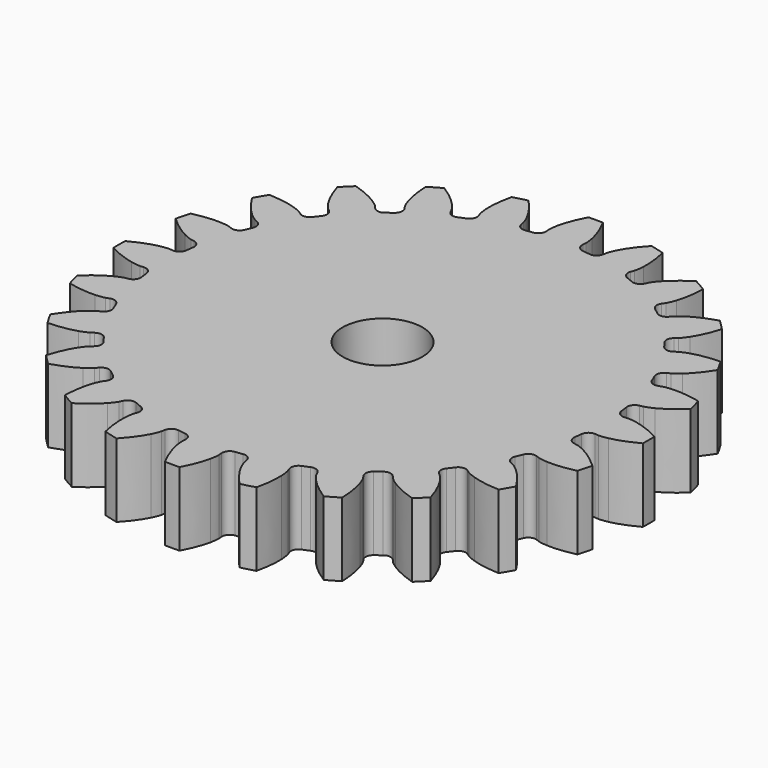
from build123d import *

# Parameters (mm, degrees)
PAD_DEPTH       = 6
POCKET_DEPTH    = 7
SKETCH002_R     = 3.25
POCKET001_DEPTH = 7


with BuildPart() as part:
    # InvoluteGear → Pad (new body)
    with BuildSketch(Plane.XY):
        with BuildLine():
            Line((18.397451, -1.481503), (18.689918, -1.503807))
            add(Edge.make_bspline(
                [(18.689918, -1.503807), (18.773558, -1.505684), (19.025496, -1.501696), (19.445272, -1.412679)],
                knots=[0, 0, 0, 0, 1, 1, 1, 1], degree=3))
            add(Edge.make_bspline(
                [(19.445272, -1.412679), (19.948013, -1.304666), (20.673509, -1.075691), (21.57358, -0.593202)],
                knots=[0, 0, 0, 0, 1, 1, 1, 1], degree=3))
            ThreePointArc((21.57358, -0.593202), (21.581734, 0), (21.57358, 0.593202))
            add(Edge.make_bspline(
                [(21.57358, 0.593202), (20.673509, 1.075691), (19.948013, 1.304666), (19.445272, 1.412679)],
                knots=[0, 0, 0, 0, 1, 1, 1, 1], degree=3))
            add(Edge.make_bspline(
                [(19.445272, 1.412679), (19.025496, 1.501696), (18.773558, 1.505684), (18.689918, 1.503807)],
                knots=[0, 0, 0, 0, 1, 1, 1, 1], degree=3))
            Line((18.689918, 1.503807), (18.397451, 1.481503))
            ThreePointArc((18.397451, 1.481503), (17.952243, 1.621068), (17.729069, 2.030801))
            ThreePointArc((17.729069, 2.030801), (17.692334, 2.32924), (17.650575, 2.627017))
            ThreePointArc((17.650575, 2.627017), (17.760098, 3.080551), (18.154014, 3.330589))
            Line((18.154014, 3.330589), (18.442288, 3.384741))
            add(Edge.make_bspline(
                [(18.442288, 3.384741), (18.523565, 3.404575), (18.765885, 3.473633), (19.148319, 3.668264)],
                knots=[0, 0, 0, 0, 1, 1, 1, 1], degree=3))
            add(Edge.make_bspline(
                [(19.148319, 3.668264), (19.605973, 3.902715), (20.247485, 4.31166), (20.99201, 5.010665)],
                knots=[0, 0, 0, 0, 1, 1, 1, 1], degree=3))
            ThreePointArc((20.99201, 5.010665), (20.846355, 5.585764), (20.684946, 6.156642))
            add(Edge.make_bspline(
                [(20.684946, 6.156642), (19.690667, 6.389736), (18.930628, 6.423136), (18.417062, 6.39735)],
                knots=[0, 0, 0, 0, 1, 1, 1, 1], degree=3))
            add(Edge.make_bspline(
                [(18.417062, 6.39735), (17.98855, 6.374688), (17.744165, 6.313334), (17.663861, 6.289872)],
                knots=[0, 0, 0, 0, 1, 1, 1, 1], degree=3))
            Line((17.663861, 6.289872), (17.387132, 6.192633))
            ThreePointArc((17.387132, 6.192633), (16.920972, 6.212213), (16.599355, 6.550224))
            ThreePointArc((16.599355, 6.550224), (16.48663, 6.828986), (16.369224, 7.105809))
            ThreePointArc((16.369224, 7.105809), (16.357632, 7.572236), (16.673411, 7.915706))
            Line((16.673411, 7.915706), (16.937847, 8.042624))
            add(Edge.make_bspline(
                [(16.937847, 8.042624), (17.011221, 8.082818), (17.227411, 8.212241), (17.546439, 8.49922)],
                knots=[0, 0, 0, 0, 1, 1, 1, 1], degree=3))
            add(Edge.make_bspline(
                [(17.546439, 8.49922), (17.927819, 8.844132), (18.441629, 9.405179), (18.979869, 10.273062)],
                knots=[0, 0, 0, 0, 1, 1, 1, 1], degree=3))
            ThreePointArc((18.979869, 10.273062), (18.69033, 10.790867), (18.386667, 11.300518))
            add(Edge.make_bspline(
                [(18.386667, 11.300518), (17.365938, 11.26833), (16.623153, 11.10388), (16.13376, 10.946052)],
                knots=[0, 0, 0, 0, 1, 1, 1, 1], degree=3))
            add(Edge.make_bspline(
                [(16.13376, 10.946052), (15.725715, 10.813255), (15.505536, 10.69074), (15.43404, 10.647294)],
                knots=[0, 0, 0, 0, 1, 1, 1, 1], degree=3))
            Line((15.43404, 10.647294), (15.191908, 10.481745))
            ThreePointArc((15.191908, 10.481745), (14.736565, 10.380007), (14.338423, 10.62326))
            ThreePointArc((14.338423, 10.62326), (14.15739, 10.863348), (13.972338, 11.100351))
            ThreePointArc((13.972338, 11.100351), (13.840421, 11.547885), (14.056543, 11.961381))
            Line((14.056543, 11.961381), (14.27912, 12.152416))
            add(Edge.make_bspline(
                [(14.27912, 12.152416), (14.33959, 12.210231), (14.514917, 12.391197), (14.748799, 12.750969)],
                knots=[0, 0, 0, 0, 1, 1, 1, 1], degree=3))
            add(Edge.make_bspline(
                [(14.748799, 12.750969), (15.027913, 13.182837), (15.379007, 13.85775), (15.674281, 14.835368)],
                knots=[0, 0, 0, 0, 1, 1, 1, 1], degree=3))
            ThreePointArc((15.674281, 14.835368), (15.260591, 15.260591), (14.835368, 15.674281))
            add(Edge.make_bspline(
                [(14.835368, 15.674281), (13.85775, 15.379007), (13.182837, 15.027913), (12.750969, 14.748799)],
                knots=[0, 0, 0, 0, 1, 1, 1, 1], degree=3))
            add(Edge.make_bspline(
                [(12.750969, 14.748799), (12.391197, 14.514917), (12.210231, 14.33959), (12.152416, 14.27912)],
                knots=[0, 0, 0, 0, 1, 1, 1, 1], degree=3))
            Line((12.152416, 14.27912), (11.961381, 14.056543))
            ThreePointArc((11.961381, 14.056543), (11.547885, 13.840421), (11.100351, 13.972338))
            ThreePointArc((11.100351, 13.972338), (10.863348, 14.15739), (10.62326, 14.338423))
            ThreePointArc((10.62326, 14.338423), (10.380007, 14.736565), (10.481745, 15.191908))
            Line((10.481745, 15.191908), (10.647294, 15.43404))
            add(Edge.make_bspline(
                [(10.647294, 15.43404), (10.69074, 15.505536), (10.813255, 15.725715), (10.946052, 16.13376)],
                knots=[0, 0, 0, 0, 1, 1, 1, 1], degree=3))
            add(Edge.make_bspline(
                [(10.946052, 16.13376), (11.10388, 16.623153), (11.26833, 17.365938), (11.300518, 18.386667)],
                knots=[0, 0, 0, 0, 1, 1, 1, 1], degree=3))
            ThreePointArc((11.300518, 18.386667), (10.790867, 18.69033), (10.273062, 18.979869))
            add(Edge.make_bspline(
                [(10.273062, 18.979869), (9.405179, 18.441629), (8.844132, 17.927819), (8.49922, 17.546439)],
                knots=[0, 0, 0, 0, 1, 1, 1, 1], degree=3))
            add(Edge.make_bspline(
                [(8.49922, 17.546439), (8.212241, 17.227411), (8.082818, 17.011221), (8.042624, 16.937847)],
                knots=[0, 0, 0, 0, 1, 1, 1, 1], degree=3))
            Line((8.042624, 16.937847), (7.915706, 16.673411))
            ThreePointArc((7.915706, 16.673411), (7.572236, 16.357632), (7.105809, 16.369224))
            ThreePointArc((7.105809, 16.369224), (6.828986, 16.48663), (6.550224, 16.599355))
            ThreePointArc((6.550224, 16.599355), (6.212213, 16.920972), (6.192633, 17.387132))
            Line((6.192633, 17.387132), (6.289872, 17.663861))
            add(Edge.make_bspline(
                [(6.289872, 17.663861), (6.313334, 17.744165), (6.374688, 17.98855), (6.39735, 18.417062)],
                knots=[0, 0, 0, 0, 1, 1, 1, 1], degree=3))
            add(Edge.make_bspline(
                [(6.39735, 18.417062), (6.423136, 18.930628), (6.389736, 19.690667), (6.156642, 20.684946)],
                knots=[0, 0, 0, 0, 1, 1, 1, 1], degree=3))
            ThreePointArc((6.156642, 20.684946), (5.585764, 20.846355), (5.010665, 20.99201))
            add(Edge.make_bspline(
                [(5.010665, 20.99201), (4.31166, 20.247485), (3.902715, 19.605973), (3.668264, 19.148319)],
                knots=[0, 0, 0, 0, 1, 1, 1, 1], degree=3))
            add(Edge.make_bspline(
                [(3.668264, 19.148319), (3.473633, 18.765885), (3.404575, 18.523565), (3.384741, 18.442288)],
                knots=[0, 0, 0, 0, 1, 1, 1, 1], degree=3))
            Line((3.384741, 18.442288), (3.330589, 18.154014))
            ThreePointArc((3.330589, 18.154014), (3.080551, 17.760098), (2.627017, 17.650575))
            ThreePointArc((2.627017, 17.650575), (2.32924, 17.692334), (2.030801, 17.729069))
            ThreePointArc((2.030801, 17.729069), (1.621068, 17.952243), (1.481503, 18.397451))
            Line((1.481503, 18.397451), (1.503807, 18.689918))
            add(Edge.make_bspline(
                [(1.503807, 18.689918), (1.505684, 18.773558), (1.501696, 19.025496), (1.412679, 19.445272)],
                knots=[0, 0, 0, 0, 1, 1, 1, 1], degree=3))
            add(Edge.make_bspline(
                [(1.412679, 19.445272), (1.304666, 19.948013), (1.075691, 20.673509), (0.593202, 21.57358)],
                knots=[0, 0, 0, 0, 1, 1, 1, 1], degree=3))
            ThreePointArc((0.593202, 21.57358), (0, 21.581734), (-0.593202, 21.57358))
            add(Edge.make_bspline(
                [(-0.593202, 21.57358), (-1.075691, 20.673509), (-1.304666, 19.948013), (-1.412679, 19.445272)],
                knots=[0, 0, 0, 0, 1, 1, 1, 1], degree=3))
            add(Edge.make_bspline(
                [(-1.412679, 19.445272), (-1.501696, 19.025496), (-1.505684, 18.773558), (-1.503807, 18.689918)],
                knots=[0, 0, 0, 0, 1, 1, 1, 1], degree=3))
            Line((-1.503807, 18.689918), (-1.481503, 18.397451))
            ThreePointArc((-1.481503, 18.397451), (-1.621068, 17.952243), (-2.030801, 17.729069))
            ThreePointArc((-2.030801, 17.729069), (-2.32924, 17.692334), (-2.627017, 17.650575))
            ThreePointArc((-2.627017, 17.650575), (-3.080551, 17.760098), (-3.330589, 18.154014))
            Line((-3.330589, 18.154014), (-3.384741, 18.442288))
            add(Edge.make_bspline(
                [(-3.384741, 18.442288), (-3.404575, 18.523565), (-3.473633, 18.765885), (-3.668264, 19.148319)],
                knots=[0, 0, 0, 0, 1, 1, 1, 1], degree=3))
            add(Edge.make_bspline(
                [(-3.668264, 19.148319), (-3.902715, 19.605973), (-4.31166, 20.247485), (-5.010665, 20.99201)],
                knots=[0, 0, 0, 0, 1, 1, 1, 1], degree=3))
            ThreePointArc((-5.010665, 20.99201), (-5.585764, 20.846355), (-6.156642, 20.684946))
            add(Edge.make_bspline(
                [(-6.156642, 20.684946), (-6.389736, 19.690667), (-6.423136, 18.930628), (-6.39735, 18.417062)],
                knots=[0, 0, 0, 0, 1, 1, 1, 1], degree=3))
            add(Edge.make_bspline(
                [(-6.39735, 18.417062), (-6.374688, 17.98855), (-6.313334, 17.744165), (-6.289872, 17.663861)],
                knots=[0, 0, 0, 0, 1, 1, 1, 1], degree=3))
            Line((-6.289872, 17.663861), (-6.192633, 17.387132))
            ThreePointArc((-6.192633, 17.387132), (-6.212213, 16.920972), (-6.550224, 16.599355))
            ThreePointArc((-6.550224, 16.599355), (-6.828986, 16.48663), (-7.105809, 16.369224))
            ThreePointArc((-7.105809, 16.369224), (-7.572236, 16.357632), (-7.915706, 16.673411))
            Line((-7.915706, 16.673411), (-8.042624, 16.937847))
            add(Edge.make_bspline(
                [(-8.042624, 16.937847), (-8.082818, 17.011221), (-8.212241, 17.227411), (-8.49922, 17.546439)],
                knots=[0, 0, 0, 0, 1, 1, 1, 1], degree=3))
            add(Edge.make_bspline(
                [(-8.49922, 17.546439), (-8.844132, 17.927819), (-9.405179, 18.441629), (-10.273062, 18.979869)],
                knots=[0, 0, 0, 0, 1, 1, 1, 1], degree=3))
            ThreePointArc((-10.273062, 18.979869), (-10.790867, 18.69033), (-11.300518, 18.386667))
            add(Edge.make_bspline(
                [(-11.300518, 18.386667), (-11.26833, 17.365938), (-11.10388, 16.623153), (-10.946052, 16.13376)],
                knots=[0, 0, 0, 0, 1, 1, 1, 1], degree=3))
            add(Edge.make_bspline(
                [(-10.946052, 16.13376), (-10.813255, 15.725715), (-10.69074, 15.505536), (-10.647294, 15.43404)],
                knots=[0, 0, 0, 0, 1, 1, 1, 1], degree=3))
            Line((-10.647294, 15.43404), (-10.481745, 15.191908))
            ThreePointArc((-10.481745, 15.191908), (-10.380007, 14.736565), (-10.62326, 14.338423))
            ThreePointArc((-10.62326, 14.338423), (-10.863348, 14.15739), (-11.100351, 13.972338))
            ThreePointArc((-11.100351, 13.972338), (-11.547885, 13.840421), (-11.961381, 14.056543))
            Line((-11.961381, 14.056543), (-12.152416, 14.27912))
            add(Edge.make_bspline(
                [(-12.152416, 14.27912), (-12.210231, 14.33959), (-12.391197, 14.514917), (-12.750969, 14.748799)],
                knots=[0, 0, 0, 0, 1, 1, 1, 1], degree=3))
            add(Edge.make_bspline(
                [(-12.750969, 14.748799), (-13.182837, 15.027913), (-13.85775, 15.379007), (-14.835368, 15.674281)],
                knots=[0, 0, 0, 0, 1, 1, 1, 1], degree=3))
            ThreePointArc((-14.835368, 15.674281), (-15.260591, 15.260591), (-15.674281, 14.835368))
            add(Edge.make_bspline(
                [(-15.674281, 14.835368), (-15.379007, 13.85775), (-15.027913, 13.182837), (-14.748799, 12.750969)],
                knots=[0, 0, 0, 0, 1, 1, 1, 1], degree=3))
            add(Edge.make_bspline(
                [(-14.748799, 12.750969), (-14.514917, 12.391197), (-14.33959, 12.210231), (-14.27912, 12.152416)],
                knots=[0, 0, 0, 0, 1, 1, 1, 1], degree=3))
            Line((-14.27912, 12.152416), (-14.056543, 11.961381))
            ThreePointArc((-14.056543, 11.961381), (-13.840421, 11.547885), (-13.972338, 11.100351))
            ThreePointArc((-13.972338, 11.100351), (-14.15739, 10.863348), (-14.338423, 10.62326))
            ThreePointArc((-14.338423, 10.62326), (-14.736565, 10.380007), (-15.191908, 10.481745))
            Line((-15.191908, 10.481745), (-15.43404, 10.647294))
            add(Edge.make_bspline(
                [(-15.43404, 10.647294), (-15.505536, 10.69074), (-15.725715, 10.813255), (-16.13376, 10.946052)],
                knots=[0, 0, 0, 0, 1, 1, 1, 1], degree=3))
            add(Edge.make_bspline(
                [(-16.13376, 10.946052), (-16.623153, 11.10388), (-17.365938, 11.26833), (-18.386667, 11.300518)],
                knots=[0, 0, 0, 0, 1, 1, 1, 1], degree=3))
            ThreePointArc((-18.386667, 11.300518), (-18.69033, 10.790867), (-18.979869, 10.273062))
            add(Edge.make_bspline(
                [(-18.979869, 10.273062), (-18.441629, 9.405179), (-17.927819, 8.844132), (-17.546439, 8.49922)],
                knots=[0, 0, 0, 0, 1, 1, 1, 1], degree=3))
            add(Edge.make_bspline(
                [(-17.546439, 8.49922), (-17.227411, 8.212241), (-17.011221, 8.082818), (-16.937847, 8.042624)],
                knots=[0, 0, 0, 0, 1, 1, 1, 1], degree=3))
            Line((-16.937847, 8.042624), (-16.673411, 7.915706))
            ThreePointArc((-16.673411, 7.915706), (-16.357632, 7.572236), (-16.369224, 7.105809))
            ThreePointArc((-16.369224, 7.105809), (-16.48663, 6.828986), (-16.599355, 6.550224))
            ThreePointArc((-16.599355, 6.550224), (-16.920972, 6.212213), (-17.387132, 6.192633))
            Line((-17.387132, 6.192633), (-17.663861, 6.289872))
            add(Edge.make_bspline(
                [(-17.663861, 6.289872), (-17.744165, 6.313334), (-17.98855, 6.374688), (-18.417062, 6.39735)],
                knots=[0, 0, 0, 0, 1, 1, 1, 1], degree=3))
            add(Edge.make_bspline(
                [(-18.417062, 6.39735), (-18.930628, 6.423136), (-19.690667, 6.389736), (-20.684946, 6.156642)],
                knots=[0, 0, 0, 0, 1, 1, 1, 1], degree=3))
            ThreePointArc((-20.684946, 6.156642), (-20.846355, 5.585764), (-20.99201, 5.010665))
            add(Edge.make_bspline(
                [(-20.99201, 5.010665), (-20.247485, 4.31166), (-19.605973, 3.902715), (-19.148319, 3.668264)],
                knots=[0, 0, 0, 0, 1, 1, 1, 1], degree=3))
            add(Edge.make_bspline(
                [(-19.148319, 3.668264), (-18.765885, 3.473633), (-18.523565, 3.404575), (-18.442288, 3.384741)],
                knots=[0, 0, 0, 0, 1, 1, 1, 1], degree=3))
            Line((-18.442288, 3.384741), (-18.154014, 3.330589))
            ThreePointArc((-18.154014, 3.330589), (-17.760098, 3.080551), (-17.650575, 2.627017))
            ThreePointArc((-17.650575, 2.627017), (-17.692334, 2.32924), (-17.729069, 2.030801))
            ThreePointArc((-17.729069, 2.030801), (-17.952243, 1.621068), (-18.397451, 1.481503))
            Line((-18.397451, 1.481503), (-18.689918, 1.503807))
            add(Edge.make_bspline(
                [(-18.689918, 1.503807), (-18.773558, 1.505684), (-19.025496, 1.501696), (-19.445272, 1.412679)],
                knots=[0, 0, 0, 0, 1, 1, 1, 1], degree=3))
            add(Edge.make_bspline(
                [(-19.445272, 1.412679), (-19.948013, 1.304666), (-20.673509, 1.075691), (-21.57358, 0.593202)],
                knots=[0, 0, 0, 0, 1, 1, 1, 1], degree=3))
            ThreePointArc((-21.57358, 0.593202), (-21.581734, 0), (-21.57358, -0.593202))
            add(Edge.make_bspline(
                [(-21.57358, -0.593202), (-20.673509, -1.075691), (-19.948013, -1.304666), (-19.445272, -1.412679)],
                knots=[0, 0, 0, 0, 1, 1, 1, 1], degree=3))
            add(Edge.make_bspline(
                [(-19.445272, -1.412679), (-19.025496, -1.501696), (-18.773558, -1.505684), (-18.689918, -1.503807)],
                knots=[0, 0, 0, 0, 1, 1, 1, 1], degree=3))
            Line((-18.689918, -1.503807), (-18.397451, -1.481503))
            ThreePointArc((-18.397451, -1.481503), (-17.952243, -1.621068), (-17.729069, -2.030801))
            ThreePointArc((-17.729069, -2.030801), (-17.692334, -2.32924), (-17.650575, -2.627017))
            ThreePointArc((-17.650575, -2.627017), (-17.760098, -3.080551), (-18.154014, -3.330589))
            Line((-18.154014, -3.330589), (-18.442288, -3.384741))
            add(Edge.make_bspline(
                [(-18.442288, -3.384741), (-18.523565, -3.404575), (-18.765885, -3.473633), (-19.148319, -3.668264)],
                knots=[0, 0, 0, 0, 1, 1, 1, 1], degree=3))
            add(Edge.make_bspline(
                [(-19.148319, -3.668264), (-19.605973, -3.902715), (-20.247485, -4.31166), (-20.99201, -5.010665)],
                knots=[0, 0, 0, 0, 1, 1, 1, 1], degree=3))
            ThreePointArc((-20.99201, -5.010665), (-20.846355, -5.585764), (-20.684946, -6.156642))
            add(Edge.make_bspline(
                [(-20.684946, -6.156642), (-19.690667, -6.389736), (-18.930628, -6.423136), (-18.417062, -6.39735)],
                knots=[0, 0, 0, 0, 1, 1, 1, 1], degree=3))
            add(Edge.make_bspline(
                [(-18.417062, -6.39735), (-17.98855, -6.374688), (-17.744165, -6.313334), (-17.663861, -6.289872)],
                knots=[0, 0, 0, 0, 1, 1, 1, 1], degree=3))
            Line((-17.663861, -6.289872), (-17.387132, -6.192633))
            ThreePointArc((-17.387132, -6.192633), (-16.920972, -6.212213), (-16.599355, -6.550224))
            ThreePointArc((-16.599355, -6.550224), (-16.48663, -6.828986), (-16.369224, -7.105809))
            ThreePointArc((-16.369224, -7.105809), (-16.357632, -7.572236), (-16.673411, -7.915706))
            Line((-16.673411, -7.915706), (-16.937847, -8.042624))
            add(Edge.make_bspline(
                [(-16.937847, -8.042624), (-17.011221, -8.082818), (-17.227411, -8.212241), (-17.546439, -8.49922)],
                knots=[0, 0, 0, 0, 1, 1, 1, 1], degree=3))
            add(Edge.make_bspline(
                [(-17.546439, -8.49922), (-17.927819, -8.844132), (-18.441629, -9.405179), (-18.979869, -10.273062)],
                knots=[0, 0, 0, 0, 1, 1, 1, 1], degree=3))
            ThreePointArc((-18.979869, -10.273062), (-18.69033, -10.790867), (-18.386667, -11.300518))
            add(Edge.make_bspline(
                [(-18.386667, -11.300518), (-17.365938, -11.26833), (-16.623153, -11.10388), (-16.13376, -10.946052)],
                knots=[0, 0, 0, 0, 1, 1, 1, 1], degree=3))
            add(Edge.make_bspline(
                [(-16.13376, -10.946052), (-15.725715, -10.813255), (-15.505536, -10.69074), (-15.43404, -10.647294)],
                knots=[0, 0, 0, 0, 1, 1, 1, 1], degree=3))
            Line((-15.43404, -10.647294), (-15.191908, -10.481745))
            ThreePointArc((-15.191908, -10.481745), (-14.736565, -10.380007), (-14.338423, -10.62326))
            ThreePointArc((-14.338423, -10.62326), (-14.15739, -10.863348), (-13.972338, -11.100351))
            ThreePointArc((-13.972338, -11.100351), (-13.840421, -11.547885), (-14.056543, -11.961381))
            Line((-14.056543, -11.961381), (-14.27912, -12.152416))
            add(Edge.make_bspline(
                [(-14.27912, -12.152416), (-14.33959, -12.210231), (-14.514917, -12.391197), (-14.748799, -12.750969)],
                knots=[0, 0, 0, 0, 1, 1, 1, 1], degree=3))
            add(Edge.make_bspline(
                [(-14.748799, -12.750969), (-15.027913, -13.182837), (-15.379007, -13.85775), (-15.674281, -14.835368)],
                knots=[0, 0, 0, 0, 1, 1, 1, 1], degree=3))
            ThreePointArc((-15.674281, -14.835368), (-15.260591, -15.260591), (-14.835368, -15.674281))
            add(Edge.make_bspline(
                [(-14.835368, -15.674281), (-13.85775, -15.379007), (-13.182837, -15.027913), (-12.750969, -14.748799)],
                knots=[0, 0, 0, 0, 1, 1, 1, 1], degree=3))
            add(Edge.make_bspline(
                [(-12.750969, -14.748799), (-12.391197, -14.514917), (-12.210231, -14.33959), (-12.152416, -14.27912)],
                knots=[0, 0, 0, 0, 1, 1, 1, 1], degree=3))
            Line((-12.152416, -14.27912), (-11.961381, -14.056543))
            ThreePointArc((-11.961381, -14.056543), (-11.547885, -13.840421), (-11.100351, -13.972338))
            ThreePointArc((-11.100351, -13.972338), (-10.863348, -14.15739), (-10.62326, -14.338423))
            ThreePointArc((-10.62326, -14.338423), (-10.380007, -14.736565), (-10.481745, -15.191908))
            Line((-10.481745, -15.191908), (-10.647294, -15.43404))
            add(Edge.make_bspline(
                [(-10.647294, -15.43404), (-10.69074, -15.505536), (-10.813255, -15.725715), (-10.946052, -16.13376)],
                knots=[0, 0, 0, 0, 1, 1, 1, 1], degree=3))
            add(Edge.make_bspline(
                [(-10.946052, -16.13376), (-11.10388, -16.623153), (-11.26833, -17.365938), (-11.300518, -18.386667)],
                knots=[0, 0, 0, 0, 1, 1, 1, 1], degree=3))
            ThreePointArc((-11.300518, -18.386667), (-10.790867, -18.69033), (-10.273062, -18.979869))
            add(Edge.make_bspline(
                [(-10.273062, -18.979869), (-9.405179, -18.441629), (-8.844132, -17.927819), (-8.49922, -17.546439)],
                knots=[0, 0, 0, 0, 1, 1, 1, 1], degree=3))
            add(Edge.make_bspline(
                [(-8.49922, -17.546439), (-8.212241, -17.227411), (-8.082818, -17.011221), (-8.042624, -16.937847)],
                knots=[0, 0, 0, 0, 1, 1, 1, 1], degree=3))
            Line((-8.042624, -16.937847), (-7.915706, -16.673411))
            ThreePointArc((-7.915706, -16.673411), (-7.572236, -16.357632), (-7.105809, -16.369224))
            ThreePointArc((-7.105809, -16.369224), (-6.828986, -16.48663), (-6.550224, -16.599355))
            ThreePointArc((-6.550224, -16.599355), (-6.212213, -16.920972), (-6.192633, -17.387132))
            Line((-6.192633, -17.387132), (-6.289872, -17.663861))
            add(Edge.make_bspline(
                [(-6.289872, -17.663861), (-6.313334, -17.744165), (-6.374688, -17.98855), (-6.39735, -18.417062)],
                knots=[0, 0, 0, 0, 1, 1, 1, 1], degree=3))
            add(Edge.make_bspline(
                [(-6.39735, -18.417062), (-6.423136, -18.930628), (-6.389736, -19.690667), (-6.156642, -20.684946)],
                knots=[0, 0, 0, 0, 1, 1, 1, 1], degree=3))
            ThreePointArc((-6.156642, -20.684946), (-5.585764, -20.846355), (-5.010665, -20.99201))
            add(Edge.make_bspline(
                [(-5.010665, -20.99201), (-4.31166, -20.247485), (-3.902715, -19.605973), (-3.668264, -19.148319)],
                knots=[0, 0, 0, 0, 1, 1, 1, 1], degree=3))
            add(Edge.make_bspline(
                [(-3.668264, -19.148319), (-3.473633, -18.765885), (-3.404575, -18.523565), (-3.384741, -18.442288)],
                knots=[0, 0, 0, 0, 1, 1, 1, 1], degree=3))
            Line((-3.384741, -18.442288), (-3.330589, -18.154014))
            ThreePointArc((-3.330589, -18.154014), (-3.080551, -17.760098), (-2.627017, -17.650575))
            ThreePointArc((-2.627017, -17.650575), (-2.32924, -17.692334), (-2.030801, -17.729069))
            ThreePointArc((-2.030801, -17.729069), (-1.621068, -17.952243), (-1.481503, -18.397451))
            Line((-1.481503, -18.397451), (-1.503807, -18.689918))
            add(Edge.make_bspline(
                [(-1.503807, -18.689918), (-1.505684, -18.773558), (-1.501696, -19.025496), (-1.412679, -19.445272)],
                knots=[0, 0, 0, 0, 1, 1, 1, 1], degree=3))
            add(Edge.make_bspline(
                [(-1.412679, -19.445272), (-1.304666, -19.948013), (-1.075691, -20.673509), (-0.593202, -21.57358)],
                knots=[0, 0, 0, 0, 1, 1, 1, 1], degree=3))
            ThreePointArc((-0.593202, -21.57358), (0, -21.581734), (0.593202, -21.57358))
            add(Edge.make_bspline(
                [(0.593202, -21.57358), (1.075691, -20.673509), (1.304666, -19.948013), (1.412679, -19.445272)],
                knots=[0, 0, 0, 0, 1, 1, 1, 1], degree=3))
            add(Edge.make_bspline(
                [(1.412679, -19.445272), (1.501696, -19.025496), (1.505684, -18.773558), (1.503807, -18.689918)],
                knots=[0, 0, 0, 0, 1, 1, 1, 1], degree=3))
            Line((1.503807, -18.689918), (1.481503, -18.397451))
            ThreePointArc((1.481503, -18.397451), (1.621068, -17.952243), (2.030801, -17.729069))
            ThreePointArc((2.030801, -17.729069), (2.32924, -17.692334), (2.627017, -17.650575))
            ThreePointArc((2.627017, -17.650575), (3.080551, -17.760098), (3.330589, -18.154014))
            Line((3.330589, -18.154014), (3.384741, -18.442288))
            add(Edge.make_bspline(
                [(3.384741, -18.442288), (3.404575, -18.523565), (3.473633, -18.765885), (3.668264, -19.148319)],
                knots=[0, 0, 0, 0, 1, 1, 1, 1], degree=3))
            add(Edge.make_bspline(
                [(3.668264, -19.148319), (3.902715, -19.605973), (4.31166, -20.247485), (5.010665, -20.99201)],
                knots=[0, 0, 0, 0, 1, 1, 1, 1], degree=3))
            ThreePointArc((5.010665, -20.99201), (5.585764, -20.846355), (6.156642, -20.684946))
            add(Edge.make_bspline(
                [(6.156642, -20.684946), (6.389736, -19.690667), (6.423136, -18.930628), (6.39735, -18.417062)],
                knots=[0, 0, 0, 0, 1, 1, 1, 1], degree=3))
            add(Edge.make_bspline(
                [(6.39735, -18.417062), (6.374688, -17.98855), (6.313334, -17.744165), (6.289872, -17.663861)],
                knots=[0, 0, 0, 0, 1, 1, 1, 1], degree=3))
            Line((6.289872, -17.663861), (6.192633, -17.387132))
            ThreePointArc((6.192633, -17.387132), (6.212213, -16.920972), (6.550224, -16.599355))
            ThreePointArc((6.550224, -16.599355), (6.828986, -16.48663), (7.105809, -16.369224))
            ThreePointArc((7.105809, -16.369224), (7.572236, -16.357632), (7.915706, -16.673411))
            Line((7.915706, -16.673411), (8.042624, -16.937847))
            add(Edge.make_bspline(
                [(8.042624, -16.937847), (8.082818, -17.011221), (8.212241, -17.227411), (8.49922, -17.546439)],
                knots=[0, 0, 0, 0, 1, 1, 1, 1], degree=3))
            add(Edge.make_bspline(
                [(8.49922, -17.546439), (8.844132, -17.927819), (9.405179, -18.441629), (10.273062, -18.979869)],
                knots=[0, 0, 0, 0, 1, 1, 1, 1], degree=3))
            ThreePointArc((10.273062, -18.979869), (10.790867, -18.69033), (11.300518, -18.386667))
            add(Edge.make_bspline(
                [(11.300518, -18.386667), (11.26833, -17.365938), (11.10388, -16.623153), (10.946052, -16.13376)],
                knots=[0, 0, 0, 0, 1, 1, 1, 1], degree=3))
            add(Edge.make_bspline(
                [(10.946052, -16.13376), (10.813255, -15.725715), (10.69074, -15.505536), (10.647294, -15.43404)],
                knots=[0, 0, 0, 0, 1, 1, 1, 1], degree=3))
            Line((10.647294, -15.43404), (10.481745, -15.191908))
            ThreePointArc((10.481745, -15.191908), (10.380007, -14.736565), (10.62326, -14.338423))
            ThreePointArc((10.62326, -14.338423), (10.863348, -14.15739), (11.100351, -13.972338))
            ThreePointArc((11.100351, -13.972338), (11.547885, -13.840421), (11.961381, -14.056543))
            Line((11.961381, -14.056543), (12.152416, -14.27912))
            add(Edge.make_bspline(
                [(12.152416, -14.27912), (12.210231, -14.33959), (12.391197, -14.514917), (12.750969, -14.748799)],
                knots=[0, 0, 0, 0, 1, 1, 1, 1], degree=3))
            add(Edge.make_bspline(
                [(12.750969, -14.748799), (13.182837, -15.027913), (13.85775, -15.379007), (14.835368, -15.674281)],
                knots=[0, 0, 0, 0, 1, 1, 1, 1], degree=3))
            ThreePointArc((14.835368, -15.674281), (15.260591, -15.260591), (15.674281, -14.835368))
            add(Edge.make_bspline(
                [(15.674281, -14.835368), (15.379007, -13.85775), (15.027913, -13.182837), (14.748799, -12.750969)],
                knots=[0, 0, 0, 0, 1, 1, 1, 1], degree=3))
            add(Edge.make_bspline(
                [(14.748799, -12.750969), (14.514917, -12.391197), (14.33959, -12.210231), (14.27912, -12.152416)],
                knots=[0, 0, 0, 0, 1, 1, 1, 1], degree=3))
            Line((14.27912, -12.152416), (14.056543, -11.961381))
            ThreePointArc((14.056543, -11.961381), (13.840421, -11.547885), (13.972338, -11.100351))
            ThreePointArc((13.972338, -11.100351), (14.15739, -10.863348), (14.338423, -10.62326))
            ThreePointArc((14.338423, -10.62326), (14.736565, -10.380007), (15.191908, -10.481745))
            Line((15.191908, -10.481745), (15.43404, -10.647294))
            add(Edge.make_bspline(
                [(15.43404, -10.647294), (15.505536, -10.69074), (15.725715, -10.813255), (16.13376, -10.946052)],
                knots=[0, 0, 0, 0, 1, 1, 1, 1], degree=3))
            add(Edge.make_bspline(
                [(16.13376, -10.946052), (16.623153, -11.10388), (17.365938, -11.26833), (18.386667, -11.300518)],
                knots=[0, 0, 0, 0, 1, 1, 1, 1], degree=3))
            ThreePointArc((18.386667, -11.300518), (18.69033, -10.790867), (18.979869, -10.273062))
            add(Edge.make_bspline(
                [(18.979869, -10.273062), (18.441629, -9.405179), (17.927819, -8.844132), (17.546439, -8.49922)],
                knots=[0, 0, 0, 0, 1, 1, 1, 1], degree=3))
            add(Edge.make_bspline(
                [(17.546439, -8.49922), (17.227411, -8.212241), (17.011221, -8.082818), (16.937847, -8.042624)],
                knots=[0, 0, 0, 0, 1, 1, 1, 1], degree=3))
            Line((16.937847, -8.042624), (16.673411, -7.915706))
            ThreePointArc((16.673411, -7.915706), (16.357632, -7.572236), (16.369224, -7.105809))
            ThreePointArc((16.369224, -7.105809), (16.48663, -6.828986), (16.599355, -6.550224))
            ThreePointArc((16.599355, -6.550224), (16.920972, -6.212213), (17.387132, -6.192633))
            Line((17.387132, -6.192633), (17.663861, -6.289872))
            add(Edge.make_bspline(
                [(17.663861, -6.289872), (17.744165, -6.313334), (17.98855, -6.374688), (18.417062, -6.39735)],
                knots=[0, 0, 0, 0, 1, 1, 1, 1], degree=3))
            add(Edge.make_bspline(
                [(18.417062, -6.39735), (18.930628, -6.423136), (19.690667, -6.389736), (20.684946, -6.156642)],
                knots=[0, 0, 0, 0, 1, 1, 1, 1], degree=3))
            ThreePointArc((20.684946, -6.156642), (20.846355, -5.585764), (20.99201, -5.010665))
            add(Edge.make_bspline(
                [(20.99201, -5.010665), (20.247485, -4.31166), (19.605973, -3.902715), (19.148319, -3.668264)],
                knots=[0, 0, 0, 0, 1, 1, 1, 1], degree=3))
            add(Edge.make_bspline(
                [(19.148319, -3.668264), (18.765885, -3.473633), (18.523565, -3.404575), (18.442288, -3.384741)],
                knots=[0, 0, 0, 0, 1, 1, 1, 1], degree=3))
            Line((18.442288, -3.384741), (18.154014, -3.330589))
            ThreePointArc((18.154014, -3.330589), (17.760098, -3.080551), (17.650575, -2.627017))
            ThreePointArc((17.650575, -2.627017), (17.692334, -2.32924), (17.729069, -2.030801))
            ThreePointArc((17.729069, -2.030801), (17.952243, -1.621068), (18.397451, -1.481503))
        make_face()
    extrude(amount=PAD_DEPTH)

    # Sketch (on Face386 of Pad) → Pocket (cut)
    with BuildSketch(Plane.XY.offset(6)):
        with BuildLine():
            ThreePointArc((-2.764725, -1.164601), (3, 0), (-2.764725, 1.164601))
            Line((-2.764725, -0.595438), (-2.764725, 1.164601))
            Line((-2.764725, -0.595438), (-2.764725, -1.164601))
        make_face()
    extrude(amount=-POCKET_DEPTH, mode=Mode.SUBTRACT)

    # Sketch002 (on Face5 of Pocket) → Pocket001 (cut)
    with BuildSketch(Plane.XY.offset(6)):
        with Locations((-0.086432, -0.041635)):
            Circle(SKETCH002_R)
    extrude(amount=-POCKET001_DEPTH, mode=Mode.SUBTRACT)


solid = part.part
